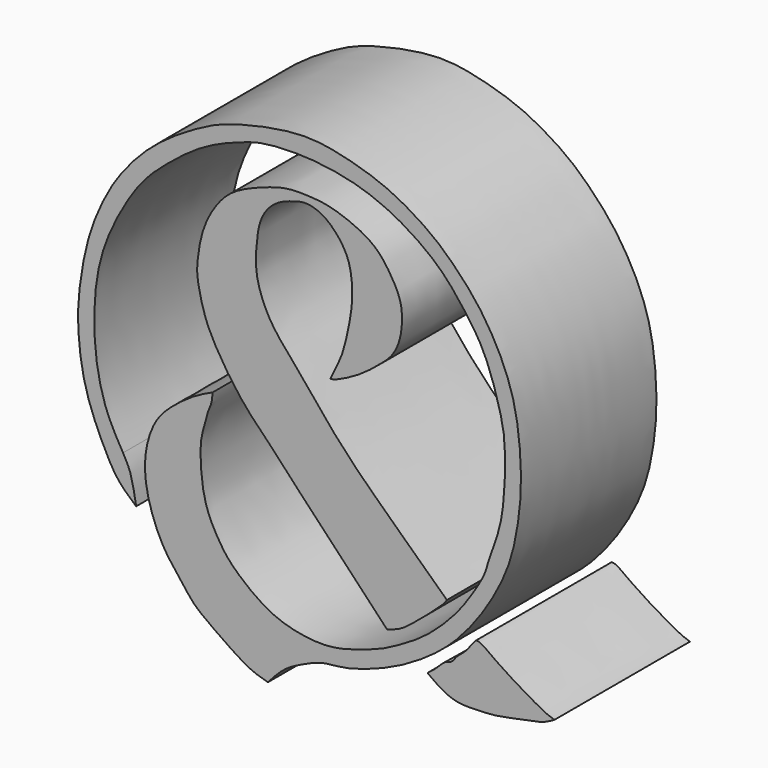
from build123d import *

# Parameters (mm, degrees)
F1_DEPTH = 25.4


with BuildPart() as f1:
    # F0 (on Front) → F1 (new body)
    with BuildSketch(Plane.XZ):
        with BuildLine():
            add(Edge.make_bspline(
                [(2.463541925, 8.3723515272), (3.0676136923, 9.7818525501), (4.3671677442, 11.892926529), (5.2010983043, 16.0853860311), (5.8258600309, 19.1371336326), (5.7405808481, 23.5840708822), (4.5121681484, 26.7266689946), (1.6231726318, 29.851543456), (-1.2805464463, 30.5124561066), (-2.6963839092, 30.1122057702), (-5.0747281015, 29.4380363075), (-7.111561136, 27.7886927455), (-8.2927145422, 25.4000091626), (-8.6616287392, 22.1220952402), (-8.8145836433, 18.2119253345), (-7.0333206099, 13.7488508001), (-4.9207444065, 10.8171792659), (-1.9101248092, 7.5412515808), (2.0837018417, 2.342575648), (6.6606458585, -2.6008299668), (11.7494012071, -7.3922939586), (16.5691051976, -11.9919411246), (18.9330932422, -14.232733117), (19.9531819671, -15.1417255402)],
                knots=[0, 0, 0, 0, 0.0483970712, 0.0965205002, 0.1393769758, 0.1887401399, 0.2329037932, 0.2814779393, 0.3210874797, 0.3496378947, 0.3865854112, 0.4249296057, 0.4631823675, 0.5061723971, 0.5535942526, 0.6053099119, 0.6504897924, 0.7003889531, 0.7615724815, 0.823978991, 0.887499443, 0.94931017, 1, 1, 1, 1], degree=3))
            add(Edge.make_bspline(
                [(10.9761077911, -21.9545196742), (10.4645231907, -21.4087028366), (9.1753042647, -20.0332200193), (5.2942240781, -15.8556989146), (-1.4060464966, -8.9713431366), (-5.7555530447, -4.003376467), (-10.7476640453, 0.7714213829), (-14.6397176738, 6.7290972971), (-16.4092168255, 10.3486046145), (-17.4922150373, 14.8295011127), (-17.545873182, 17.1408212257), (-16.8478365477, 22.0660464051), (-14.5571142498, 26.0754930866), (-11.8750449388, 28.8282361064), (-6.4904336691, 30.8275273724), (-3.8136671733, 31.5093061965), (-0.5008207572, 31.4816141463), (2.6375481544, 31.1731122738), (7.2011599554, 29.455915854), (9.854299106, 27.5295217272), (11.7670243021, 24.7698532464), (13.2879733698, 21.8327210194), (13.2436042543, 18.5026038539), (12.7612670126, 16.3130075621), (11.7170638612, 14.2482883303), (9.6577608715, 12.4841012773), (7.1087047608, 10.4429512498), (4.3535992204, 8.9745688528), (3.0524597029, 8.4168809428), (2.463541925, 8.3723515272)],
                knots=[0, 0, 0, 0, 0.0292052771, 0.0737345302, 0.1321072053, 0.1805535636, 0.2296317133, 0.2790162974, 0.3172277484, 0.3560623028, 0.3848807211, 0.4258053771, 0.4658633198, 0.5025220686, 0.5465841165, 0.5781509071, 0.6110650914, 0.6447703763, 0.6856313406, 0.7195148196, 0.7532304215, 0.7871823964, 0.8207420119, 0.8486384926, 0.8763508424, 0.9069334892, 0.9410635546, 0.9741675812, 1, 1, 1, 1], degree=3))
            add(Edge.make_bspline(
                [(19.9531819671, -15.1417255402), (19.6800973124, -15.6392343509), (18.833406512, -16.3837025484), (17.3545333352, -17.8187579824), (15.6884676933, -19.08045354), (13.3722392663, -21.1954288519), (11.7496033439, -21.7083883466), (10.9761077911, -21.9545196742)],
                knots=[0, 0, 0, 0, 0.1720749351, 0.3609220872, 0.5559626762, 0.7896314843, 1, 1, 1, 1], degree=3))
        make_face()
    extrude(amount=F1_DEPTH)


with BuildPart() as f1b:
    # F0 (on Front) → F1, piece 2 (new body)
    with BuildSketch(Plane.XZ):
        with BuildLine():
            add(Edge.make_bspline(
                [(-15.1769192889, 0.8456473006), (-15.2089187711, 0.3118924826), (-15.3052930303, -0.7460725382), (-15.9082799257, -1.8697691827), (-16.0917826953, -2.9328788085), (-16.8470375758, -5.1910953519), (-17.0666342745, -7.4717986091), (-16.8576528208, -11.5700348184), (-16.0578233444, -15.0399326404), (-14.4984363963, -18.0645009865), (-12.7991827173, -20.6026270594), (-9.9668320644, -23.139418266), (-6.1102138645, -25.8641312637), (-1.0777243637, -27.0744401451), (3.1268249339, -27.1035201008), (6.7047618844, -25.9822351744), (10.2880164231, -24.8299630443), (13.3691161899, -23.0797876677), (17.1225572412, -20.8492841988), (21.6930736222, -16.3220326665), (24.1655460978, -12.4798782858), (25.7540009347, -9.8893749854), (26.0782372206, -8.3087254316)],
                knots=[0, 0, 0, 0, 0.0342469252, 0.064044972, 0.0920471995, 0.1328492698, 0.1745828953, 0.2289599642, 0.2806349438, 0.3299188275, 0.3768530241, 0.4291602719, 0.4880119896, 0.5493210927, 0.6044582365, 0.6565464917, 0.7087576012, 0.7591054472, 0.8158257924, 0.8842013402, 0.9424254881, 1, 1, 1, 1], degree=3))
            add(Edge.make_bspline(
                [(-6.8952674046, -34.7367972136), (-7.7784901308, -34.4943060237), (-9.8790252318, -33.9175984266), (-14.5181337397, -30.6580386371), (-18.0513883522, -28.1998595907), (-19.814484852, -25.5748098366), (-22.5925198622, -22.4291447836), (-24.9513693835, -16.7184882229), (-25.6824530003, -11.1649209272), (-24.1301755154, -5.7606024486), (-21.3604073579, -2.9654468893), (-18.1021432901, -0.519769346), (-16.1149018752, 0.4078220137), (-15.1769192889, 0.8456473006)],
                knots=[0, 0, 0, 0, 0.0756118754, 0.1798248546, 0.2708043166, 0.3465798998, 0.4352411625, 0.54333988, 0.647406197, 0.7482743276, 0.8343943795, 0.9218337606, 1, 1, 1, 1], degree=3))
            add(Edge.make_bspline(
                [(-26.6455914825, -17.9342906922), (-27.5519918359, -17.1514548166), (-29.4087508033, -15.5478173878), (-31.3137758961, -12.0996878026), (-34.4749929369, -5.2662712226), (-35.3884521482, 1.8567449036), (-35.4241770965, 6.5626158322), (-34.4188452001, 13.382908257), (-32.6467631032, 18.8679620305), (-29.4804782439, 25.0558563545), (-23.9735124988, 31.003628773), (-17.7793795552, 34.8384957744), (-12.9896322572, 37.2890732175), (-3.0983314603, 39.4515905089), (2.7073597846, 38.9176841373), (8.8861264193, 37.2244522333), (12.9719700615, 35.4280239838), (18.0051028082, 32.3239175544), (21.7304406229, 28.7393246459), (24.8907899728, 25.1635720533), (27.7883090323, 20.4282086103), (29.9012678669, 15.2750554951), (30.8874926248, 9.7638569429), (31.2077077221, 3.3079774167), (30.6087551014, -2.0392249883), (29.5051531692, -7.2827872907), (27.0720837092, -12.4106878976), (23.9941762193, -17.0820644973), (19.9726907913, -21.6115585407), (14.5670755067, -25.3191253434), (9.9810805498, -27.5337655684), (4.6100856083, -29.3098133896), (1.2659192283, -29.3043806181), (-1.5975999211, -30.6260095611), (-4.5061881294, -32.0264480867), (-6.0836769286, -33.8160687008), (-6.8952674046, -34.7367972136)],
                knots=[0, 0, 0, 0, 0.023521689, 0.0481715373, 0.0826294334, 0.116120082, 0.143409027, 0.1758127025, 0.2060761121, 0.238792854, 0.2746083935, 0.307860777, 0.3373299925, 0.3765375396, 0.4074689958, 0.4384195552, 0.4651426341, 0.4953055109, 0.5238475133, 0.551080603, 0.5804804798, 0.6099325462, 0.639609588, 0.6713738671, 0.7004690074, 0.7292665327, 0.7589667744, 0.788532792, 0.8194004806, 0.8512208021, 0.8799124783, 0.9093468252, 0.9320856001, 0.9538701294, 0.9762606855, 1, 1, 1, 1], degree=3))
            add(Edge.make_bspline(
                [(-28.6118667573, -11.507933028), (-28.2337432982, -12.1738611482), (-27.3531865554, -13.7246443177), (-26.9026571946, -16.40494745), (-26.6455914825, -17.9342906922)],
                knots=[0, 0, 0, 0, 0.4294140749, 1, 1, 1, 1], degree=3))
            add(Edge.make_bspline(
                [(26.0782372206, -8.3087254316), (26.4851749329, -7.1892168521), (27.2987137409, -4.9511257444), (28.3009339261, -1.6047558661), (28.7484193728, 4.2271115192), (28.6602867557, 9.1134974542), (27.888575258, 12.7542619173), (25.8312382649, 19.3633696199), (22.747232905, 23.803999019), (19.0046084396, 28.5863979267), (12.9871896662, 32.8070623959), (6.3918656534, 35.5939019769), (-1.2905231775, 36.6881552202), (-7.3347899381, 36.3257835791), (-10.0341306315, 35.6308522305), (-16.3636229066, 33.2969003385), (-21.4824939681, 29.2909825069), (-25.1232156112, 26.1500249515), (-28.3706597546, 21.6682054764), (-31.7068208859, 14.9429001983), (-32.9056471623, 8.7002942271), (-32.992908297, 2.7017803774), (-32.445908321, -2.284064651), (-31.0593338261, -7.2808121251), (-29.4214011281, -10.109752965), (-28.6118667573, -11.507933028)],
                knots=[0, 0, 0, 0, 0.0346893758, 0.0693500566, 0.1142295043, 0.1549818585, 0.1908065072, 0.2389171427, 0.2823787376, 0.3275548552, 0.3774355629, 0.4271254723, 0.4792202924, 0.5237195984, 0.5545907817, 0.6019520012, 0.6498206337, 0.6899082392, 0.7331810944, 0.7838611217, 0.8308082314, 0.8758007317, 0.9173033638, 0.9591278876, 1, 1, 1, 1], degree=3))
        make_face()
    extrude(amount=F1_DEPTH)


with BuildPart() as f1c:
    # F0 (on Front) → F1, piece 3 (new body)
    with BuildSketch(Plane.XZ):
        with BuildLine():
            add(Edge.make_bspline(
                [(17.0453581959, -25.7186386734), (17.4808967976, -25.3915127746), (18.3746182205, -24.7202532751), (19.6650826368, -23.2422899138), (20.7630903817, -23.1820441182), (21.3493637514, -22.0451429132), (22.7618394615, -21.1423413976), (23.6631206853, -19.7400126892), (24.1485800138, -19.2436115363), (24.3589375168, -19.028512761)],
                knots=[0, 0, 0, 0, 0.1573119132, 0.3228026778, 0.4407154281, 0.5693393142, 0.7264014274, 0.8814452433, 1, 1, 1, 1], degree=3))
            add(Edge.make_bspline(
                [(17.0453581959, -25.7186386734), (17.5845365209, -26.1226772692), (18.727085993, -26.9788579853), (21.1254791855, -28.2331281658), (24.1984876245, -28.2438307179), (27.8397236682, -28.0556672535), (30.6742439901, -27.3003374681), (34.1730077208, -26.8014097507), (35.4999248272, -26.0498285493), (36.0846407712, -25.7186386734)],
                knots=[0, 0, 0, 0, 0.1225329857, 0.2596543511, 0.4086028647, 0.5698617117, 0.717749545, 0.8756242267, 1, 1, 1, 1], degree=3))
            add(Edge.make_bspline(
                [(36.0846407712, -25.7186386734), (35.8526733935, -25.6447684826), (35.3155946761, -25.478362915), (34.0853493267, -24.947225651), (31.314156039, -23.2966764066), (28.313779562, -21.546252274), (26.2327560016, -19.9469863204), (24.9052367081, -19.0766109163), (24.5040379353, -19.0404036781), (24.3589375168, -19.028512761)],
                knots=[0, 0, 0, 0, 0.0940018448, 0.2165121695, 0.4106110534, 0.6162047124, 0.792977753, 0.9245066263, 1, 1, 1, 1], degree=3))
        make_face()
    extrude(amount=F1_DEPTH)


solid = Compound([f1.part, f1b.part, f1c.part])
